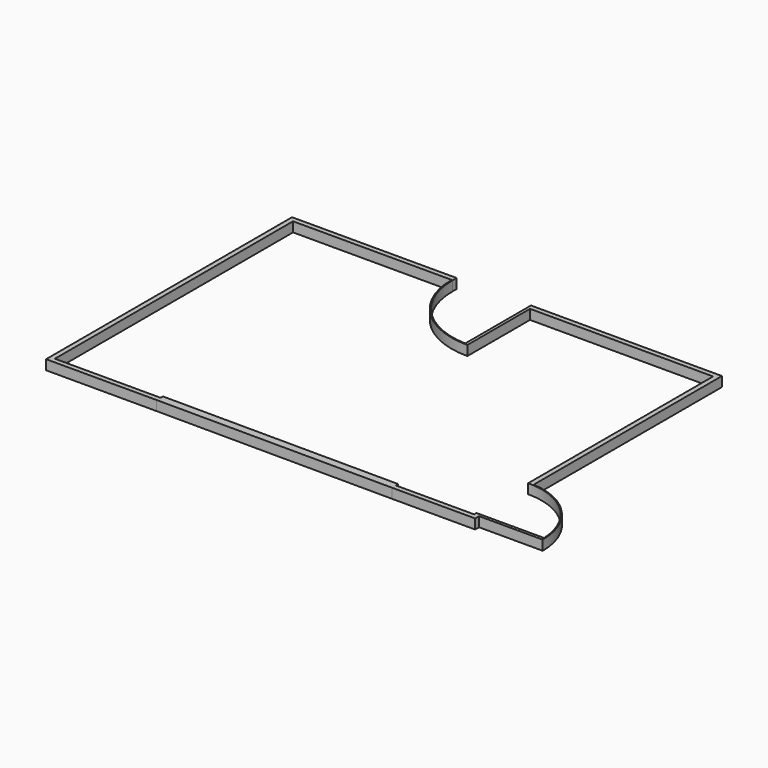
from build123d import *

# Parameters (mm, degrees)
F1_DEPTH = 10


with BuildPart() as f1:
    # F0 (on Top) → F1 (new body)
    with BuildSketch(Plane.XY):
        with BuildLine():
            Line((240.321773, 157.240174), (48.321774, 157.240174))
            Line((48.321774, 157.240174), (45.321774, 157.240174))
            Line((45.321774, 157.240174), (45.321774, 73.297157))
            ThreePointArc((45.321774, 73.297157), (-8.590439, 97.449665), (-30.678226, 152.240175))
            Line((-30.678226, 152.240175), (-30.678226, 157.240174))
            Line((-30.678226, 157.240174), (-31.678226, 157.240174))
            Line((-31.678226, 157.240174), (-198.678225, 157.240174))
            Line((-198.678225, 157.240174), (-198.678225, -156.759825))
            Line((-198.678225, -156.759825), (-85.688599, -156.759825))
            Line((-85.688599, -156.759825), (155.311401, -157.759825))
            Line((155.311401, -157.759825), (240.321773, -157.759825))
            Line((240.321773, -157.759825), (240.321773, -152.759825))
            Line((240.321773, -152.759825), (304.321774, -152.759825))
            Line((304.321774, -152.759825), (305.321774, -152.759825))
            ThreePointArc((305.321774, -152.759825), (286.556528, -105.062865), (240.321773, -82.938625))
            Line((240.321773, -82.938625), (240.321773, -82.759825))
            Line((240.321773, -82.759825), (240.321773, 157.240174))
        make_face()
        with BuildLine():
            Line((-193.678226, -151.759825), (-193.678226, 152.240175))
            Line((-193.678226, 152.240175), (-31.678226, 152.240175))
            ThreePointArc((-31.678226, 152.240175), (-8.246768, 95.671632), (48.321774, 72.240175))
            Line((48.321774, 72.240175), (48.321774, 73.240175))
            Line((48.321774, 73.240175), (48.321774, 152.240175))
            Line((48.321774, 152.240175), (235.321774, 152.240175))
            Line((235.321774, 152.240175), (235.321774, -82.759825))
            Line((235.321774, -82.759825), (235.321774, -83.759825))
            ThreePointArc((235.321774, -83.759825), (283.035511, -102.916076), (304.256021, -149.748251))
            Line((304.256021, -149.748251), (235.321774, -149.748251))
            Line((235.321774, -149.748251), (235.321774, -152.759825))
            Line((235.321774, -152.759825), (155.321774, -152.759825))
            Line((155.321774, -152.759825), (155.321774, -149.759825))
            Line((155.321774, -149.759825), (-85.678226, -148.759825))
            Line((-85.678226, -148.759825), (-85.678226, -151.759825))
            Line((-85.678226, -151.759825), (-193.678226, -151.759825))
        make_face(mode=Mode.SUBTRACT)
        with BuildLine():
            Line((240.321773, 157.240174), (48.321774, 157.240174))
            Line((48.321774, 157.240174), (45.321774, 157.240174))
            Line((45.321774, 157.240174), (45.321774, 73.297157))
            ThreePointArc((45.321774, 73.297157), (-8.590439, 97.449665), (-30.678226, 152.240175))
            Line((-30.678226, 152.240175), (-30.678226, 157.240174))
            Line((-30.678226, 157.240174), (-31.678226, 157.240174))
            Line((-31.678226, 157.240174), (-198.678225, 157.240174))
            Line((-198.678225, 157.240174), (-198.678225, -156.759825))
            Line((-198.678225, -156.759825), (-85.688599, -156.759825))
            Line((-85.688599, -156.759825), (155.311401, -157.759825))
            Line((155.311401, -157.759825), (240.321773, -157.759825))
            Line((240.321773, -157.759825), (240.321773, -152.759825))
            Line((240.321773, -152.759825), (304.321774, -152.759825))
            Line((304.321774, -152.759825), (305.321774, -152.759825))
            ThreePointArc((305.321774, -152.759825), (286.556528, -105.062865), (240.321773, -82.938625))
            Line((240.321773, -82.938625), (240.321773, -82.759825))
            Line((240.321773, -82.759825), (240.321773, 157.240174))
        make_face()
        with BuildLine():
            Line((-193.678226, -151.759825), (-193.678226, 152.240175))
            Line((-193.678226, 152.240175), (-31.678226, 152.240175))
            ThreePointArc((-31.678226, 152.240175), (-8.246768, 95.671632), (48.321774, 72.240175))
            Line((48.321774, 72.240175), (48.321774, 73.240175))
            Line((48.321774, 73.240175), (48.321774, 152.240175))
            Line((48.321774, 152.240175), (235.321774, 152.240175))
            Line((235.321774, 152.240175), (235.321774, -82.759825))
            Line((235.321774, -82.759825), (235.321774, -83.759825))
            ThreePointArc((235.321774, -83.759825), (283.035511, -102.916076), (304.256021, -149.748251))
            Line((304.256021, -149.748251), (235.321774, -149.748251))
            Line((235.321774, -149.748251), (235.321774, -152.759825))
            Line((235.321774, -152.759825), (155.321774, -152.759825))
            Line((155.321774, -152.759825), (155.321774, -149.759825))
            Line((155.321774, -149.759825), (-85.678226, -148.759825))
            Line((-85.678226, -148.759825), (-85.678226, -151.759825))
            Line((-85.678226, -151.759825), (-193.678226, -151.759825))
        make_face(mode=Mode.SUBTRACT)
    extrude(amount=F1_DEPTH)


solid = f1.part
